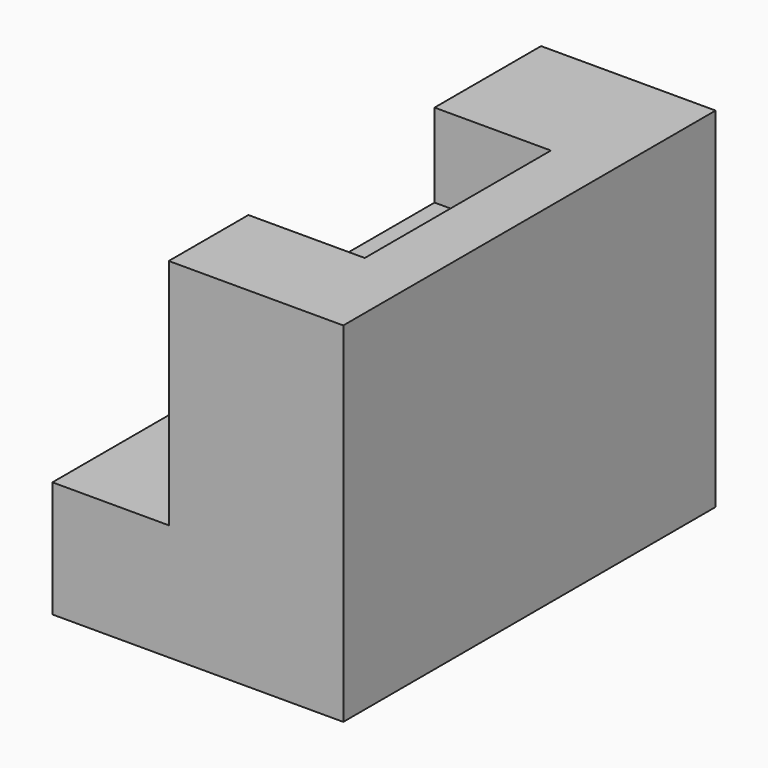
from build123d import *

# Parameters (mm, degrees)
F1_DEPTH = 101.6
F2_W     = 50.8
F2_H     = 18.263976
F3_DEPTH = 25.4


with BuildPart() as f1:
    # F0 (on Front) → F1 (new body)
    with BuildSketch(Plane.XZ):
        Polygon((-46.174058, -6.168511), (-46.174058, -31.568511), (17.325942, -31.568511), (17.325942, 44.631489), (-20.774058, 44.631489), (-20.774058, -6.168511), align=None)
    extrude(amount=F1_DEPTH)

    # F2 (on face) → F3 (cut)
    with BuildSketch(Plane(origin=(-20.774058, 0, 0), x_dir=(0, -1, 0), z_dir=(-1, 0, 0))):
        with Locations((54.467278, 35.499501)):
            Rectangle(F2_W, F2_H)
    extrude(amount=-F3_DEPTH, mode=Mode.SUBTRACT)


solid = f1.part
